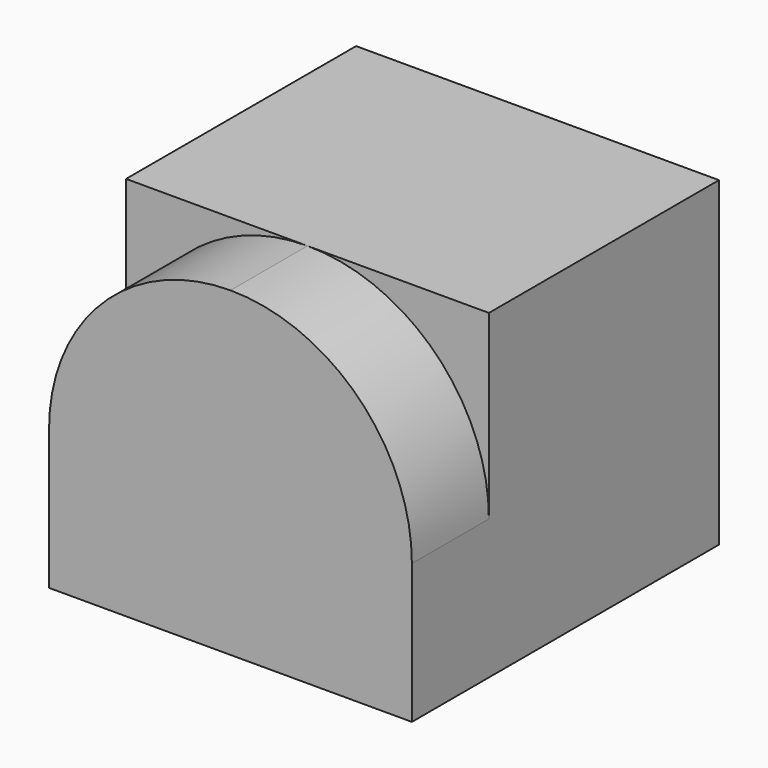
from build123d import *

# Parameters (mm, degrees)
F0_W     = 56.53508
F0_H     = 59.804362
F1_DEPTH = 50
F3_DEPTH = 15


with BuildPart() as f1:
    # F0 (on Top) → F1 (new body)
    with BuildSketch(Plane.XY):
        Rectangle(F0_W, F0_H)
    extrude(amount=F1_DEPTH)

    # F2 (on face) → F3 (cut)
    with BuildSketch(Plane.XZ.offset(29.902181)):
        with BuildLine():
            ThreePointArc((0, 50), (19.988169, 41.720629), (28.26754, 21.73246))
            Line((28.26754, 21.73246), (28.26754, 50))
            Line((28.26754, 50), (0, 50))
        make_face()
        with BuildLine():
            ThreePointArc((-28.26754, 21.73246), (-19.988169, 41.720629), (0, 50))
            Line((0, 50), (-28.26754, 50))
            Line((-28.26754, 50), (-28.26754, 21.73246))
        make_face()
    extrude(amount=-F3_DEPTH, mode=Mode.SUBTRACT)


solid = f1.part
